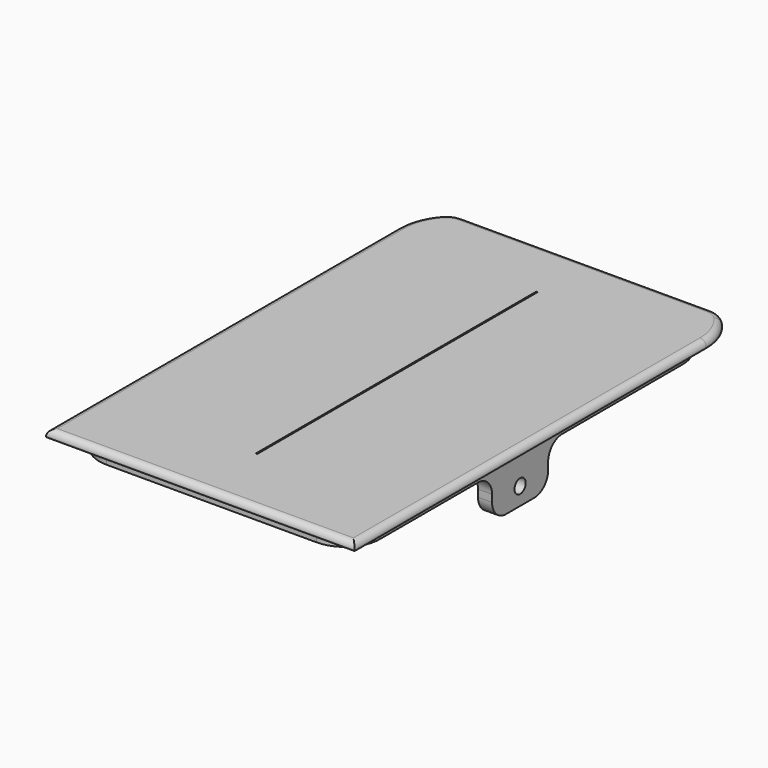
from build123d import *

# Parameters (mm, degrees)
SKETCH013_W     = 44
SKETCH013_H     = 69
PAD006_DEPTH    = 1
SKETCH014_W     = 40
SKETCH014_H     = 64
SKETCH014_W_2   = 36
SKETCH014_H_2   = 60
PAD007_DEPTH    = 2
FILLET005_R     = 3
FILLET006_R     = 5
CHAMFER002_SIZE = 3
FILLET007_R     = 8
FILLET008_R     = 3
FILLET009_R     = 0.9
SKETCH015_W     = 2
SKETCH015_H     = 10
PAD008_DEPTH    = 6
FILLET011_R     = 2.5
SKETCH016_R     = 1
POCKET002_DEPTH = 41
SKETCH024_W     = 0.2
SKETCH024_H     = 50
POCKET007_DEPTH = 0.2


with BuildPart() as part:
    # Sketch013 → Pad006 (new body)
    with BuildSketch(Plane.XY):
        with Locations((0, 2.5)):
            Rectangle(SKETCH013_W, SKETCH013_H)
    extrude(amount=PAD006_DEPTH)

    # Sketch014 (on Face5 of Pad006) → Pad007 (join)
    with BuildSketch(Plane(origin=(0, 0, 0), x_dir=(1, 0, 0), z_dir=(0, 0, -1))):
        with Locations((0, -2)):
            Rectangle(SKETCH014_W, SKETCH014_H)
        with Locations((0, -2)):
            Rectangle(SKETCH014_W_2, SKETCH014_H_2, mode=Mode.SUBTRACT)
    extrude(amount=PAD007_DEPTH)

    # Fillet005
    fillet005_edges = [part.edges().sort_by_distance(p)[0] for p in [
        (18, 32, -1),
        (-18, 32, -1),
        (-18, -28, -1),
        (18, -28, -1),
    ]]
    fillet(fillet005_edges, radius=FILLET005_R)

    # Fillet006
    fillet006_edges = [part.edges().sort_by_distance(p)[0] for p in [
        (20, -30, -1),
        (-20, -30, -1),
        (-20, 34, -1),
        (20, 34, -1),
    ]]
    fillet(fillet006_edges, radius=FILLET006_R)

    # Chamfer002
    chamfer002_edges = [part.edges().sort_by_distance(p)[0] for p in [
        (22, 37, 0.5),
        (-22, 37, 0.5),
    ]]
    chamfer(chamfer002_edges, length=CHAMFER002_SIZE)

    # Fillet007
    fillet007_edges = [part.edges().sort_by_distance(p)[0] for p in [
        (-22, 34, 0.5),
        (22, 34, 0.5),
    ]]
    fillet(fillet007_edges, radius=FILLET007_R)

    # Fillet008
    fillet008_edges = [part.edges().sort_by_distance(p)[0] for p in [
        (-19, 37, 0.5),
        (19, 37, 0.5),
    ]]
    fillet(fillet008_edges, radius=FILLET008_R)

    # Fillet009
    fillet009_edges = [part.edges().sort_by_distance(p)[0] for p in [
        (-21.480851, 33.521227, 1),
        (-18.976175, 36.735386, 1),
        (-22, -0.656854, 1),
        (0, 37, 1),
        (0, -32, 1),
        (18.976175, 36.735386, 1),
        (22, -0.656854, 1),
        (21.480851, 33.521227, 1),
    ]]
    fillet(fillet009_edges, radius=FILLET009_R)

    # Sketch015 (on Face27 of Fillet009) → Pad008 (join)
    with BuildSketch(Plane(origin=(0, 0, -2), x_dir=(1, 0, 0), z_dir=(0, 0, -1))):
        with Locations((-19, 0)):
            Rectangle(SKETCH015_W, SKETCH015_H)
        with Locations((19, 0)):
            Rectangle(SKETCH015_W, SKETCH015_H)
    extrude(amount=PAD008_DEPTH)

    # Fillet011
    fillet011_edges = [part.edges().sort_by_distance(p)[0] for p in [
        (-19, -5, -2),
        (-19, -5, -8),
        (19, -5, -2),
        (19, -5, -8),
        (-19, 5, -8),
        (-19, 5, -2),
        (19, 5, -8),
        (19, 5, -2),
    ]]
    fillet(fillet011_edges, radius=FILLET011_R)

    # Sketch016 (on Face3 of Fillet011) → Pocket002 (cut)
    with BuildSketch(Plane(origin=(-20, 0, 0), x_dir=(0, -1, 0), z_dir=(-1, 0, 0))):
        with Locations((0, -5.5)):
            Circle(SKETCH016_R)
    extrude(amount=-POCKET002_DEPTH, mode=Mode.SUBTRACT)

    # Sketch024 (on Face57 of Pocket002) → Pocket007 (cut)
    with BuildSketch(Plane.XY.offset(1)):
        with Locations((0, 3)):
            Rectangle(SKETCH024_W, SKETCH024_H)
    extrude(amount=-POCKET007_DEPTH, mode=Mode.SUBTRACT)


with BuildPart() as part_1:
    # Body003 placement: moved
    add(part.part.moved(Location((0, -32, 52))))


solid = part_1.part
